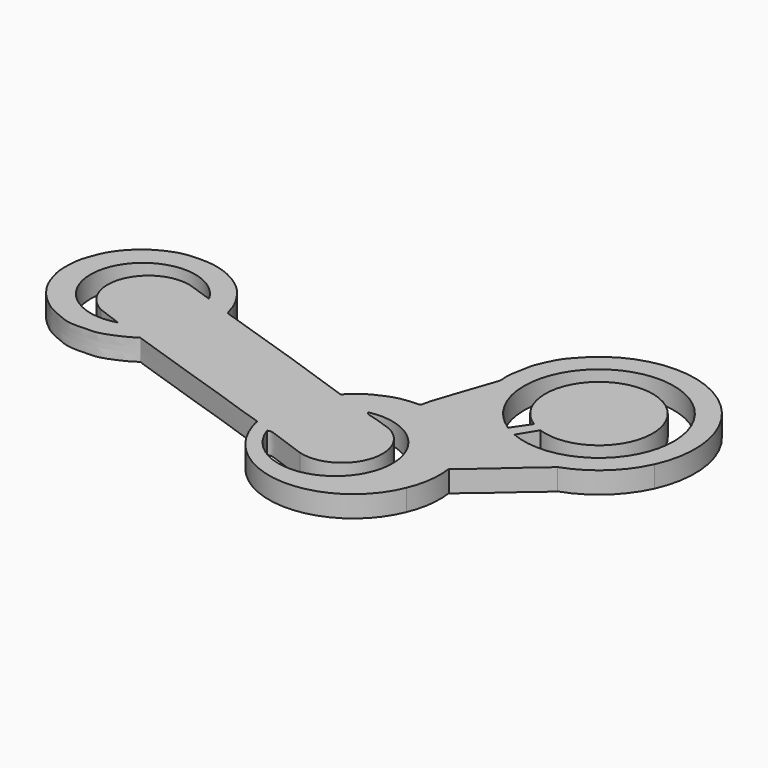
from build123d import *

# Parameters (mm, degrees)
F1_DEPTH = 0.34


with BuildPart() as f1:
    # F0 (on Top) → F1 (new body)
    with BuildSketch(Plane.XY):
        with BuildLine():
            ThreePointArc((12.5435916707, 4.4662733562), (13.0738942871, 4.7798357138), (13.4374015033, 5.2772336639))
            ThreePointArc((13.4374015033, 5.2772336639), (12.9377806529, 7.1437238073), (11.0097210854, 7.0172613487))
            add(Edge.make_bspline(
                [(11.0097210854, 7.0172613487), (10.9447051634, 6.9521651025), (10.8213138172, 6.828621312), (10.7134398057, 6.6553094476), (10.5986385953, 6.4044635299), (10.5852745929, 6.2800106213), (10.5379902595, 6.0755357424), (10.532641415, 5.9245472261), (10.5504455416, 5.8347468178), (10.5019764212, 5.7365342747), (10.4397142968, 5.5337231436), (10.375261323, 5.3434155066), (10.3153198529, 5.1684436509), (10.2535791983, 4.9959734311), (10.192261151, 4.792126433), (10.1870856309, 4.7003697137), (10.0704957444, 4.7047098791), (9.9029736524, 4.689585449), (9.7432276518, 4.6480091898), (9.5991153561, 4.5773740114), (9.4122918669, 4.4953454553), (9.2380637704, 4.3143525478), (9.226138255, 4.3078173432), (9.0625792613, 4.3738985319), (8.7022397987, 4.4899613373), (7.9108127426, 4.7712264721), (6.7853369659, 5.1254694363), (6.7784148562, 5.1432318698), (6.7583748053, 5.182563061), (6.7283790845, 5.3065209105), (6.6613391959, 5.4426632807), (6.5268084713, 5.6599041987), (6.3426299984, 5.8259074276), (6.1065194879, 5.9708161427), (5.8113829572, 6.0596988824), (5.5482004059, 6.0535126795), (5.3092270034, 6.0434953724), (5.0121535007, 5.9090651351), (4.8244123104, 5.766564721), (4.6771406378, 5.6110427008), (4.5728445399, 5.4509483053), (4.5161311855, 5.303469558), (4.4595252707, 5.1531458367), (4.4359389685, 5.0218458071), (4.4318146893, 4.8951394235), (4.4299044209, 4.7931419108), (4.443239236, 4.6642497523), (4.4962134852, 4.4920445605), (4.5507146032, 4.3456018005), (4.683754274, 4.1430893384), (4.8296342356, 4.0033941987), (4.9681975488, 3.8869455143), (5.2082866341, 3.7775627435), (5.415837785, 3.7005828627), (5.65540081, 3.7162475043), (5.8631708771, 3.7085948739), (6.1419840479, 3.8333416047), (6.2557392549, 3.885841191), (6.340910746, 3.9582559645), (6.3564428304, 3.9394884809), (6.6331232327, 3.8553018171), (7.017035295, 3.7183065897), (7.4673209193, 3.5666848215), (7.9375280732, 3.4236158835), (8.2703155258, 3.2953804639), (8.5798878018, 3.19791879), (8.7706047451, 3.1317065753), (8.8884916414, 3.1027442997), (8.8755093193, 3.0845739833), (8.8958572625, 3.0184394051), (8.9116850868, 2.9669960495)],
                knots=[0, 0, 0, 0, 0.0170764354, 0.0324087436, 0.0494853185, 0.0614909234, 0.0765907641, 0.0896066807, 0.0992065043, 0.1098798034, 0.1252320597, 0.1403641546, 0.154484394, 0.1690179169, 0.1844182929, 0.1933041714, 0.2035363862, 0.2174796134, 0.2309699915, 0.2440273425, 0.2598707904, 0.2758251546, 0.279091248, 0.2916597345, 0.3117860951, 0.3447300998, 0.3793850026, 0.3826398038, 0.3890287615, 0.4008015862, 0.4139809493, 0.4306348299, 0.4472351439, 0.4646841261, 0.4830737779, 0.4999861134, 0.5162305069, 0.5350171827, 0.5512788193, 0.566548467, 0.5809866264, 0.5942182628, 0.6074732244, 0.6196645419, 0.6313919874, 0.6419329427, 0.6538557338, 0.667856092, 0.6811563187, 0.6973997189, 0.7123449667, 0.726434624, 0.7433919041, 0.7591402584, 0.7750607437, 0.7904861385, 0.8085292788, 0.8209892124, 0.8310620776, 0.8350359427, 0.8518723792, 0.8739716692, 0.8970321672, 0.9203318128, 0.9403421577, 0.9591500339, 0.9746434548, 0.9849103812, 0.988262409, 1, 1, 1, 1], degree=3))
            ThreePointArc((8.9116850868, 2.9669960495), (10.1362740398, 2.027357111), (11.4318728447, 2.866382245))
            ThreePointArc((11.4318728447, 2.866382245), (11.5271651453, 3.2198396785), (11.5251736715, 3.5859118216))
            add(Edge.make_bspline(
                [(11.5251736715, 3.5859118216), (11.639558955, 3.6780369386), (11.8601033115, 3.8556618397), (12.1207225717, 4.1081252226), (12.3985660374, 4.3235088765), (12.4999394986, 4.4233017829), (12.5435916707, 4.4662733562)],
                knots=[0, 0, 0, 0, 0.2854584876, 0.5503877473, 0.8063935948, 1, 1, 1, 1], degree=3))
        make_face()
        with BuildLine():
            ThreePointArc((9.7918268293, 4.148082342), (10.7709329682, 2.8172902202), (9.1269696131, 2.9817316681))
            add(Edge.make_bspline(
                [(9.8109478131, 2.7756653726), (9.6529491697, 2.8318372808), (9.3913340886, 2.9248470561), (9.182455729, 3.0081157039), (9.1408058724, 2.9883109061), (9.1269696131, 2.9817316681)],
                knots=[0, 0, 0, 0, 0.5045292641, 0.8354025166, 1, 1, 1, 1], degree=3))
            ThreePointArc((9.8109478131, 2.7756653726), (10.5891613009, 3.1620734058), (10.2684963495, 3.9696013555))
            add(Edge.make_bspline(
                [(10.2684963495, 3.9696013555), (10.1873703785, 4.0005193595), (10.0363211327, 4.0580858961), (9.8362818725, 4.0952596114), (9.803570562, 4.134128109), (9.7918268293, 4.148082342)],
                knots=[0, 0, 0, 0, 0.4265016072, 0.7941075507, 1, 1, 1, 1], degree=3))
        make_face(mode=Mode.SUBTRACT)
        with BuildLine():
            ThreePointArc((5.8738165535, 4.0926616639), (4.864560242, 5.1994000643), (6.3595040701, 5.2921962924))
            add(Edge.make_bspline(
                [(6.0286889784, 5.4057249799), (6.1389606756, 5.3678820841), (6.2492323729, 5.3300391883), (6.3595040701, 5.2921962924)],
                knots=[0, 0, 0, 0, 0.3497533242, 0.3497533242, 0.3497533242, 0.3497533242], degree=3))
            ThreePointArc((6.0286889784, 5.4057249799), (5.1990952347, 5.0780668185), (5.4887165315, 4.2344406247))
            add(Edge.make_bspline(
                [(5.4887165315, 4.2344406247), (5.6170832055, 4.1871809711), (5.7454498795, 4.1399213175), (5.8738165535, 4.0926616639)],
                knots=[0, 0, 0, 0, 0.4103697121, 0.4103697121, 0.4103697121, 0.4103697121], degree=3))
        make_face(mode=Mode.SUBTRACT)
        with BuildLine():
            Line((11.5857183483, 4.8128990993), (11.7622278993, 5.104980096))
            ThreePointArc((11.7622278993, 5.104980096), (12.4239819408, 6.6716120774), (11.5972545378, 5.1854169429))
            Line((11.5972545378, 5.1854169429), (11.4090079715, 4.9063423686))
            ThreePointArc((11.4090079715, 4.9063423686), (12.6061553434, 6.9564553801), (11.5857183483, 4.8128990993))
        make_face(mode=Mode.SUBTRACT)
        with BuildLine():
            ThreePointArc((12.5435916707, 4.4662733562), (13.0738942871, 4.7798357138), (13.4374015033, 5.2772336639))
            ThreePointArc((13.4374015033, 5.2772336639), (12.9377806529, 7.1437238073), (11.0097210854, 7.0172613487))
            add(Edge.make_bspline(
                [(11.0097210854, 7.0172613487), (10.9447051634, 6.9521651025), (10.8213138172, 6.828621312), (10.7134398057, 6.6553094476), (10.5986385953, 6.4044635299), (10.5852745929, 6.2800106213), (10.5379902595, 6.0755357424), (10.532641415, 5.9245472261), (10.5504455416, 5.8347468178), (10.5019764212, 5.7365342747), (10.4397142968, 5.5337231436), (10.375261323, 5.3434155066), (10.3153198529, 5.1684436509), (10.2535791983, 4.9959734311), (10.192261151, 4.792126433), (10.1870856309, 4.7003697137), (10.0704957444, 4.7047098791), (9.9029736524, 4.689585449), (9.7432276518, 4.6480091898), (9.5991153561, 4.5773740114), (9.4122918669, 4.4953454553), (9.2380637704, 4.3143525478), (9.226138255, 4.3078173432), (9.0625792613, 4.3738985319), (8.7022397987, 4.4899613373), (7.9108127426, 4.7712264721), (6.7853369659, 5.1254694363), (6.7784148562, 5.1432318698), (6.7583748053, 5.182563061), (6.7283790845, 5.3065209105), (6.6613391959, 5.4426632807), (6.5268084713, 5.6599041987), (6.3426299984, 5.8259074276), (6.1065194879, 5.9708161427), (5.8113829572, 6.0596988824), (5.5482004059, 6.0535126795), (5.3092270034, 6.0434953724), (5.0121535007, 5.9090651351), (4.8244123104, 5.766564721), (4.6771406378, 5.6110427008), (4.5728445399, 5.4509483053), (4.5161311855, 5.303469558), (4.4595252707, 5.1531458367), (4.4359389685, 5.0218458071), (4.4318146893, 4.8951394235), (4.4299044209, 4.7931419108), (4.443239236, 4.6642497523), (4.4962134852, 4.4920445605), (4.5507146032, 4.3456018005), (4.683754274, 4.1430893384), (4.8296342356, 4.0033941987), (4.9681975488, 3.8869455143), (5.2082866341, 3.7775627435), (5.415837785, 3.7005828627), (5.65540081, 3.7162475043), (5.8631708771, 3.7085948739), (6.1419840479, 3.8333416047), (6.2557392549, 3.885841191), (6.340910746, 3.9582559645), (6.3564428304, 3.9394884809), (6.6331232327, 3.8553018171), (7.017035295, 3.7183065897), (7.4673209193, 3.5666848215), (7.9375280732, 3.4236158835), (8.2703155258, 3.2953804639), (8.5798878018, 3.19791879), (8.7706047451, 3.1317065753), (8.8884916414, 3.1027442997), (8.8755093193, 3.0845739833), (8.8958572625, 3.0184394051), (8.9116850868, 2.9669960495)],
                knots=[0, 0, 0, 0, 0.0170764354, 0.0324087436, 0.0494853185, 0.0614909234, 0.0765907641, 0.0896066807, 0.0992065043, 0.1098798034, 0.1252320597, 0.1403641546, 0.154484394, 0.1690179169, 0.1844182929, 0.1933041714, 0.2035363862, 0.2174796134, 0.2309699915, 0.2440273425, 0.2598707904, 0.2758251546, 0.279091248, 0.2916597345, 0.3117860951, 0.3447300998, 0.3793850026, 0.3826398038, 0.3890287615, 0.4008015862, 0.4139809493, 0.4306348299, 0.4472351439, 0.4646841261, 0.4830737779, 0.4999861134, 0.5162305069, 0.5350171827, 0.5512788193, 0.566548467, 0.5809866264, 0.5942182628, 0.6074732244, 0.6196645419, 0.6313919874, 0.6419329427, 0.6538557338, 0.667856092, 0.6811563187, 0.6973997189, 0.7123449667, 0.726434624, 0.7433919041, 0.7591402584, 0.7750607437, 0.7904861385, 0.8085292788, 0.8209892124, 0.8310620776, 0.8350359427, 0.8518723792, 0.8739716692, 0.8970321672, 0.9203318128, 0.9403421577, 0.9591500339, 0.9746434548, 0.9849103812, 0.988262409, 1, 1, 1, 1], degree=3))
            ThreePointArc((8.9116850868, 2.9669960495), (10.1362740398, 2.027357111), (11.4318728447, 2.866382245))
            ThreePointArc((11.4318728447, 2.866382245), (11.5271651453, 3.2198396785), (11.5251736715, 3.5859118216))
            add(Edge.make_bspline(
                [(11.5251736715, 3.5859118216), (11.639558955, 3.6780369386), (11.8601033115, 3.8556618397), (12.1207225717, 4.1081252226), (12.3985660374, 4.3235088765), (12.4999394986, 4.4233017829), (12.5435916707, 4.4662733562)],
                knots=[0, 0, 0, 0, 0.2854584876, 0.5503877473, 0.8063935948, 1, 1, 1, 1], degree=3))
        make_face()
        with BuildLine():
            ThreePointArc((9.7918268293, 4.148082342), (10.7709329682, 2.8172902202), (9.1269696131, 2.9817316681))
            add(Edge.make_bspline(
                [(9.8109478131, 2.7756653726), (9.6529491697, 2.8318372808), (9.3913340886, 2.9248470561), (9.182455729, 3.0081157039), (9.1408058724, 2.9883109061), (9.1269696131, 2.9817316681)],
                knots=[0, 0, 0, 0, 0.5045292641, 0.8354025166, 1, 1, 1, 1], degree=3))
            ThreePointArc((9.8109478131, 2.7756653726), (10.5891613009, 3.1620734058), (10.2684963495, 3.9696013555))
            add(Edge.make_bspline(
                [(10.2684963495, 3.9696013555), (10.1873703785, 4.0005193595), (10.0363211327, 4.0580858961), (9.8362818725, 4.0952596114), (9.803570562, 4.134128109), (9.7918268293, 4.148082342)],
                knots=[0, 0, 0, 0, 0.4265016072, 0.7941075507, 1, 1, 1, 1], degree=3))
        make_face(mode=Mode.SUBTRACT)
        with BuildLine():
            ThreePointArc((5.8738165535, 4.0926616639), (4.864560242, 5.1994000643), (6.3595040701, 5.2921962924))
            add(Edge.make_bspline(
                [(6.0286889784, 5.4057249799), (6.1389606756, 5.3678820841), (6.2492323729, 5.3300391883), (6.3595040701, 5.2921962924)],
                knots=[0, 0, 0, 0, 0.3497533242, 0.3497533242, 0.3497533242, 0.3497533242], degree=3))
            ThreePointArc((6.0286889784, 5.4057249799), (5.1990952347, 5.0780668185), (5.4887165315, 4.2344406247))
            add(Edge.make_bspline(
                [(5.4887165315, 4.2344406247), (5.6170832055, 4.1871809711), (5.7454498795, 4.1399213175), (5.8738165535, 4.0926616639)],
                knots=[0, 0, 0, 0, 0.4103697121, 0.4103697121, 0.4103697121, 0.4103697121], degree=3))
        make_face(mode=Mode.SUBTRACT)
        with BuildLine():
            Line((11.5857183483, 4.8128990993), (11.7622278993, 5.104980096))
            ThreePointArc((11.7622278993, 5.104980096), (12.4239819408, 6.6716120774), (11.5972545378, 5.1854169429))
            Line((11.5972545378, 5.1854169429), (11.4090079715, 4.9063423686))
            ThreePointArc((11.4090079715, 4.9063423686), (12.6061553434, 6.9564553801), (11.5857183483, 4.8128990993))
        make_face(mode=Mode.SUBTRACT)
    extrude(amount=F1_DEPTH)


solid = f1.part
